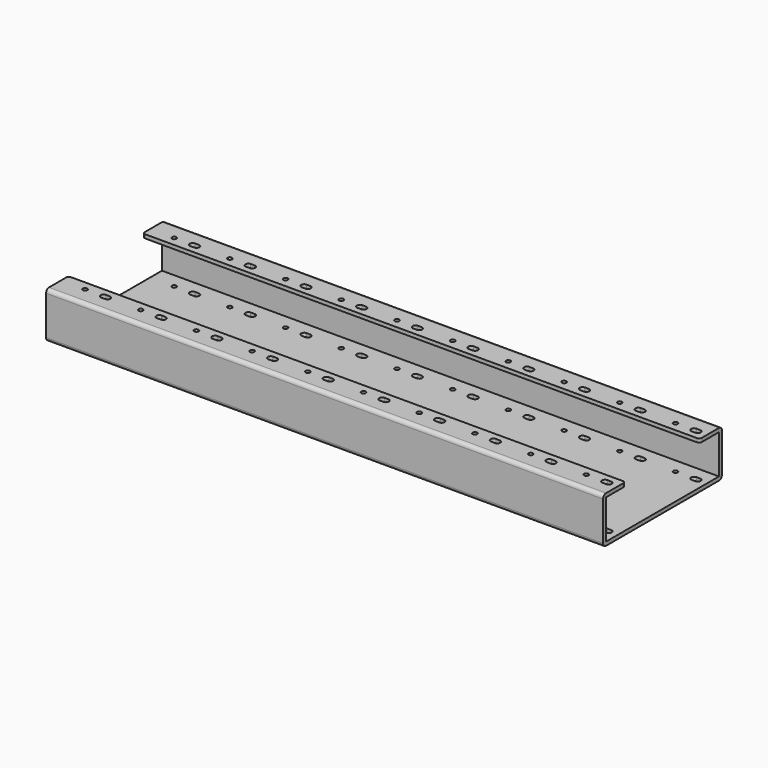
from build123d import *

# Parameters (mm, degrees)
F1_DEPTH = 150
F2_R     = 1.2
F3_DEPTH = 25.001
F4_R     = 2
F5_R     = 1.5
F6_R     = 1.75
F6_W     = 2
F6_H     = 2
F7_DEPTH = 2
F8_R     = 3


with BuildPart() as f1:
    # F0 (on Right) → F1 (new body, symmetric)
    with BuildSketch(Plane.YZ):
        Polygon((-40, 0), (0, 0), (40, 0), (40, 25), (25, 25), (25, 23), (38, 23), (38, 2), (0, 2), (-38, 2), (-38, 23), (-25, 23), (-25, 25), (-40, 25), align=None)
    extrude(amount=F1_DEPTH, both=True)

    # F2 (on face) → F3 (cut, through all)
    with BuildSketch(Plane(origin=(0, 0, 0), x_dir=(1, 0, 0), z_dir=(0, 0, -1))):
        with Locations((133, 30)):
            Circle(F2_R)
        with BuildLine():
            Line((144.9975827452, 31.599998174), (142.8993026858, 31.5968281219))
            ThreePointArc((142.8993026858, 31.5968281219), (141.4003756426, 29.9653313496), (142.9685808386, 28.4003085184))
            Line((142.9685808386, 28.4003085184), (143.0314191614, 28.4003085184))
            Line((143.0314191614, 28.4003085184), (145.0314191614, 28.4003085184))
            ThreePointArc((145.0314191614, 28.4003085184), (146.5999105446, 30.016918903), (144.9975827452, 31.599998174))
        make_face()
        with BuildLine():
            Line((143.0314191614, 28.4003085184), (142.9685808386, 28.4003085184))
            ThreePointArc((142.9685808386, 28.4003085184), (143, 28.4), (143.0314191614, 28.4003085184))
        make_face()
        with BuildLine():
            ThreePointArc((112.8993026858, 31.5968281219), (111.4003756426, 29.9653313496), (112.9685808386, 28.4003085184))
            Line((112.9685808386, 28.4003085184), (113.0314191614, 28.4003085184))
            Line((113.0314191614, 28.4003085184), (115.0314191614, 28.4003085184))
            ThreePointArc((115.0314191614, 28.4003085184), (116.5999105446, 30.016918903), (114.9975827452, 31.599998174))
            Line((114.9975827452, 31.599998174), (112.8993026858, 31.5968281219))
        make_face()
        with BuildLine():
            Line((113.0314191614, 28.4003085184), (112.9685808386, 28.4003085184))
            ThreePointArc((112.9685808386, 28.4003085184), (113, 28.4), (113.0314191614, 28.4003085184))
        make_face()
        with Locations((103, 30)):
            Circle(F2_R)
        with BuildLine():
            ThreePointArc((82.8993026858, 31.5968281219), (81.4003756426, 29.9653313496), (82.9685808386, 28.4003085184))
            Line((82.9685808386, 28.4003085184), (83.0314191614, 28.4003085184))
            Line((83.0314191614, 28.4003085184), (85.0314191614, 28.4003085184))
            ThreePointArc((85.0314191614, 28.4003085184), (86.5999105446, 30.016918903), (84.9975827452, 31.599998174))
            Line((84.9975827452, 31.599998174), (82.8993026858, 31.5968281219))
        make_face()
        with BuildLine():
            Line((83.0314191614, 28.4003085184), (82.9685808386, 28.4003085184))
            ThreePointArc((82.9685808386, 28.4003085184), (83, 28.4), (83.0314191614, 28.4003085184))
        make_face()
        with Locations((73, 30)):
            Circle(F2_R)
        with BuildLine():
            ThreePointArc((52.8993026858, 31.5968281219), (51.4003756426, 29.9653313496), (52.9685808386, 28.4003085184))
            Line((52.9685808386, 28.4003085184), (53.0314191614, 28.4003085184))
            Line((53.0314191614, 28.4003085184), (55.0314191614, 28.4003085184))
            ThreePointArc((55.0314191614, 28.4003085184), (56.5999105446, 30.016918903), (54.9975827452, 31.599998174))
            Line((54.9975827452, 31.599998174), (52.8993026858, 31.5968281219))
        make_face()
        with BuildLine():
            Line((53.0314191614, 28.4003085184), (52.9685808386, 28.4003085184))
            ThreePointArc((52.9685808386, 28.4003085184), (53, 28.4), (53.0314191614, 28.4003085184))
        make_face()
        with Locations((43, 30)):
            Circle(F2_R)
        with BuildLine():
            ThreePointArc((22.8993026858, 31.5968281219), (21.4003756426, 29.9653313496), (22.9685808386, 28.4003085184))
            Line((22.9685808386, 28.4003085184), (23.0314191614, 28.4003085184))
            Line((23.0314191614, 28.4003085184), (25.0314191614, 28.4003085184))
            ThreePointArc((25.0314191614, 28.4003085184), (26.5999105446, 30.016918903), (24.9975827452, 31.599998174))
            Line((24.9975827452, 31.599998174), (22.8993026858, 31.5968281219))
        make_face()
        with BuildLine():
            Line((23.0314191614, 28.4003085184), (22.9685808386, 28.4003085184))
            ThreePointArc((22.9685808386, 28.4003085184), (23, 28.4), (23.0314191614, 28.4003085184))
        make_face()
        with Locations((13, 30)):
            Circle(F2_R)
        with BuildLine():
            ThreePointArc((-7.1006973142, 31.5968281219), (-8.5996243574, 29.9653313496), (-7.0314191614, 28.4003085184))
            Line((-7.0314191614, 28.4003085184), (-6.9685808386, 28.4003085184))
            Line((-6.9685808386, 28.4003085184), (-4.9685808386, 28.4003085184))
            ThreePointArc((-4.9685808386, 28.4003085184), (-3.4000894554, 30.016918903), (-5.0024172548, 31.599998174))
            Line((-5.0024172548, 31.599998174), (-7.1006973142, 31.5968281219))
        make_face()
        with BuildLine():
            Line((-6.9685808386, 28.4003085184), (-7.0314191614, 28.4003085184))
            ThreePointArc((-7.0314191614, 28.4003085184), (-7, 28.4), (-6.9685808386, 28.4003085184))
        make_face()
        with Locations((-17, 30)):
            Circle(F2_R)
        with BuildLine():
            ThreePointArc((-37.1006973142, 31.5968281219), (-38.5996243574, 29.9653313496), (-37.0314191614, 28.4003085184))
            Line((-37.0314191614, 28.4003085184), (-36.9685808386, 28.4003085184))
            Line((-36.9685808386, 28.4003085184), (-34.9685808386, 28.4003085184))
            ThreePointArc((-34.9685808386, 28.4003085184), (-33.4000894554, 30.016918903), (-35.0024172548, 31.599998174))
            Line((-35.0024172548, 31.599998174), (-37.1006973142, 31.5968281219))
        make_face()
        with BuildLine():
            Line((-36.9685808386, 28.4003085184), (-37.0314191614, 28.4003085184))
            ThreePointArc((-37.0314191614, 28.4003085184), (-37, 28.4), (-36.9685808386, 28.4003085184))
        make_face()
        with Locations((-47, 30)):
            Circle(F2_R)
        with BuildLine():
            ThreePointArc((-67.1006973142, 31.5968281219), (-68.5996243574, 29.9653313496), (-67.0314191614, 28.4003085184))
            Line((-67.0314191614, 28.4003085184), (-66.9685808386, 28.4003085184))
            Line((-66.9685808386, 28.4003085184), (-64.9685808386, 28.4003085184))
            ThreePointArc((-64.9685808386, 28.4003085184), (-63.4000894554, 30.016918903), (-65.0024172548, 31.599998174))
            Line((-65.0024172548, 31.599998174), (-67.1006973142, 31.5968281219))
        make_face()
        with BuildLine():
            Line((-66.9685808386, 28.4003085184), (-67.0314191614, 28.4003085184))
            ThreePointArc((-67.0314191614, 28.4003085184), (-67, 28.4), (-66.9685808386, 28.4003085184))
        make_face()
        with Locations((-77, 30)):
            Circle(F2_R)
        with BuildLine():
            ThreePointArc((-97.1006973142, 31.5968281219), (-98.5996243574, 29.9653313496), (-97.0314191614, 28.4003085184))
            Line((-97.0314191614, 28.4003085184), (-96.9685808386, 28.4003085184))
            Line((-96.9685808386, 28.4003085184), (-94.9685808386, 28.4003085184))
            ThreePointArc((-94.9685808386, 28.4003085184), (-93.4000894554, 30.016918903), (-95.0024172548, 31.599998174))
            Line((-95.0024172548, 31.599998174), (-97.1006973142, 31.5968281219))
        make_face()
        with BuildLine():
            Line((-96.9685808386, 28.4003085184), (-97.0314191614, 28.4003085184))
            ThreePointArc((-97.0314191614, 28.4003085184), (-97, 28.4), (-96.9685808386, 28.4003085184))
        make_face()
        with Locations((-107, 30)):
            Circle(F2_R)
        with BuildLine():
            ThreePointArc((-127.1006973142, 31.5968281219), (-128.5996243574, 29.9653313496), (-127.0314191614, 28.4003085184))
            Line((-127.0314191614, 28.4003085184), (-126.9685808386, 28.4003085184))
            Line((-126.9685808386, 28.4003085184), (-124.9685808386, 28.4003085184))
            ThreePointArc((-124.9685808386, 28.4003085184), (-123.4000894554, 30.016918903), (-125.0024172548, 31.599998174))
            Line((-125.0024172548, 31.599998174), (-127.1006973142, 31.5968281219))
        make_face()
        with BuildLine():
            Line((-126.9685808386, 28.4003085184), (-127.0314191614, 28.4003085184))
            ThreePointArc((-127.0314191614, 28.4003085184), (-127, 28.4), (-126.9685808386, 28.4003085184))
        make_face()
        with Locations((-137, 30)):
            Circle(F2_R)
        with BuildLine():
            ThreePointArc((-127.0314191614, -28.4003085184), (-128.5996243574, -29.9653313496), (-127.1006973142, -31.5968281219))
            Line((-127.1006973142, -31.5968281219), (-125.0024172548, -31.599998174))
            ThreePointArc((-125.0024172548, -31.599998174), (-123.4000894554, -30.016918903), (-124.9685808386, -28.4003085184))
            Line((-124.9685808386, -28.4003085184), (-126.9685808386, -28.4003085184))
            Line((-126.9685808386, -28.4003085184), (-127.0314191614, -28.4003085184))
        make_face()
        with BuildLine():
            ThreePointArc((-126.9685808386, -28.4003085184), (-127, -28.4), (-127.0314191614, -28.4003085184))
            Line((-127.0314191614, -28.4003085184), (-126.9685808386, -28.4003085184))
        make_face()
        with Locations((-137, -30)):
            Circle(F2_R)
        with BuildLine():
            ThreePointArc((-96.9685808386, -28.4003085184), (-97, -28.4), (-97.0314191614, -28.4003085184))
            Line((-97.0314191614, -28.4003085184), (-96.9685808386, -28.4003085184))
        make_face()
        with BuildLine():
            Line((-96.9685808386, -28.4003085184), (-97.0314191614, -28.4003085184))
            ThreePointArc((-97.0314191614, -28.4003085184), (-98.5996243574, -29.9653313496), (-97.1006973142, -31.5968281219))
            Line((-97.1006973142, -31.5968281219), (-95.0024172548, -31.599998174))
            ThreePointArc((-95.0024172548, -31.599998174), (-93.4000894554, -30.016918903), (-94.9685808386, -28.4003085184))
            Line((-94.9685808386, -28.4003085184), (-96.9685808386, -28.4003085184))
        make_face()
        with Locations((-107, -30)):
            Circle(F2_R)
        with BuildLine():
            ThreePointArc((-67.0314191614, -28.4003085184), (-68.5996243574, -29.9653313496), (-67.1006973142, -31.5968281219))
            Line((-67.1006973142, -31.5968281219), (-65.0024172548, -31.599998174))
            ThreePointArc((-65.0024172548, -31.599998174), (-63.4000894554, -30.016918903), (-64.9685808386, -28.4003085184))
            Line((-64.9685808386, -28.4003085184), (-66.9685808386, -28.4003085184))
            Line((-66.9685808386, -28.4003085184), (-67.0314191614, -28.4003085184))
        make_face()
        with BuildLine():
            ThreePointArc((-66.9685808386, -28.4003085184), (-67, -28.4), (-67.0314191614, -28.4003085184))
            Line((-67.0314191614, -28.4003085184), (-66.9685808386, -28.4003085184))
        make_face()
        with Locations((-77, -30)):
            Circle(F2_R)
        with BuildLine():
            ThreePointArc((-37.0314191614, -28.4003085184), (-38.5996243574, -29.9653313496), (-37.1006973142, -31.5968281219))
            Line((-37.1006973142, -31.5968281219), (-35.0024172548, -31.599998174))
            ThreePointArc((-35.0024172548, -31.599998174), (-33.4000894554, -30.016918903), (-34.9685808386, -28.4003085184))
            Line((-34.9685808386, -28.4003085184), (-36.9685808386, -28.4003085184))
            Line((-36.9685808386, -28.4003085184), (-37.0314191614, -28.4003085184))
        make_face()
        with BuildLine():
            ThreePointArc((-36.9685808386, -28.4003085184), (-37, -28.4), (-37.0314191614, -28.4003085184))
            Line((-37.0314191614, -28.4003085184), (-36.9685808386, -28.4003085184))
        make_face()
        with Locations((-47, -30)):
            Circle(F2_R)
        with BuildLine():
            ThreePointArc((-6.9685808386, -28.4003085184), (-7, -28.4), (-7.0314191614, -28.4003085184))
            Line((-7.0314191614, -28.4003085184), (-6.9685808386, -28.4003085184))
        make_face()
        with BuildLine():
            Line((-6.9685808386, -28.4003085184), (-7.0314191614, -28.4003085184))
            ThreePointArc((-7.0314191614, -28.4003085184), (-8.5996243574, -29.9653313496), (-7.1006973142, -31.5968281219))
            Line((-7.1006973142, -31.5968281219), (-5.0024172548, -31.599998174))
            ThreePointArc((-5.0024172548, -31.599998174), (-3.4000894554, -30.016918903), (-4.9685808386, -28.4003085184))
            Line((-4.9685808386, -28.4003085184), (-6.9685808386, -28.4003085184))
        make_face()
        with Locations((-17, -30)):
            Circle(F2_R)
        with BuildLine():
            ThreePointArc((22.9685808386, -28.4003085184), (21.4003756426, -29.9653313496), (22.8993026858, -31.5968281219))
            Line((22.8993026858, -31.5968281219), (24.9975827452, -31.599998174))
            ThreePointArc((24.9975827452, -31.599998174), (26.5999105446, -30.016918903), (25.0314191614, -28.4003085184))
            Line((25.0314191614, -28.4003085184), (23.0314191614, -28.4003085184))
            Line((23.0314191614, -28.4003085184), (22.9685808386, -28.4003085184))
        make_face()
        with BuildLine():
            ThreePointArc((23.0314191614, -28.4003085184), (23, -28.4), (22.9685808386, -28.4003085184))
            Line((22.9685808386, -28.4003085184), (23.0314191614, -28.4003085184))
        make_face()
        with Locations((13, -30)):
            Circle(F2_R)
        with BuildLine():
            ThreePointArc((52.9685808386, -28.4003085184), (51.4003756426, -29.9653313496), (52.8993026858, -31.5968281219))
            Line((52.8993026858, -31.5968281219), (54.9975827452, -31.599998174))
            ThreePointArc((54.9975827452, -31.599998174), (56.5999105446, -30.016918903), (55.0314191614, -28.4003085184))
            Line((55.0314191614, -28.4003085184), (53.0314191614, -28.4003085184))
            Line((53.0314191614, -28.4003085184), (52.9685808386, -28.4003085184))
        make_face()
        with BuildLine():
            ThreePointArc((53.0314191614, -28.4003085184), (53, -28.4), (52.9685808386, -28.4003085184))
            Line((52.9685808386, -28.4003085184), (53.0314191614, -28.4003085184))
        make_face()
        with Locations((43, -30)):
            Circle(F2_R)
        with Locations((73, -30)):
            Circle(F2_R)
        with BuildLine():
            ThreePointArc((83.0314191614, -28.4003085184), (83, -28.4), (82.9685808386, -28.4003085184))
            Line((82.9685808386, -28.4003085184), (83.0314191614, -28.4003085184))
        make_face()
        with BuildLine():
            Line((83.0314191614, -28.4003085184), (82.9685808386, -28.4003085184))
            ThreePointArc((82.9685808386, -28.4003085184), (81.4003756426, -29.9653313496), (82.8993026858, -31.5968281219))
            Line((82.8993026858, -31.5968281219), (84.9975827452, -31.599998174))
            ThreePointArc((84.9975827452, -31.599998174), (86.5999105446, -30.016918903), (85.0314191614, -28.4003085184))
            Line((85.0314191614, -28.4003085184), (83.0314191614, -28.4003085184))
        make_face()
        with BuildLine():
            ThreePointArc((112.9685808386, -28.4003085184), (111.4003756426, -29.9653313496), (112.8993026858, -31.5968281219))
            Line((112.8993026858, -31.5968281219), (114.9975827452, -31.599998174))
            ThreePointArc((114.9975827452, -31.599998174), (116.5999105446, -30.016918903), (115.0314191614, -28.4003085184))
            Line((115.0314191614, -28.4003085184), (113.0314191614, -28.4003085184))
            Line((113.0314191614, -28.4003085184), (112.9685808386, -28.4003085184))
        make_face()
        with BuildLine():
            ThreePointArc((113.0314191614, -28.4003085184), (113, -28.4), (112.9685808386, -28.4003085184))
            Line((112.9685808386, -28.4003085184), (113.0314191614, -28.4003085184))
        make_face()
        with BuildLine():
            ThreePointArc((142.9685808386, -28.4003085184), (141.4003756426, -29.9653313496), (142.8993026858, -31.5968281219))
            Line((142.8993026858, -31.5968281219), (144.9975827452, -31.599998174))
            ThreePointArc((144.9975827452, -31.599998174), (146.5999105446, -30.016918903), (145.0314191614, -28.4003085184))
            Line((145.0314191614, -28.4003085184), (143.0314191614, -28.4003085184))
            Line((143.0314191614, -28.4003085184), (142.9685808386, -28.4003085184))
        make_face()
        with BuildLine():
            ThreePointArc((143.0314191614, -28.4003085184), (143, -28.4), (142.9685808386, -28.4003085184))
            Line((142.9685808386, -28.4003085184), (143.0314191614, -28.4003085184))
        make_face()
        with Locations((133, -30)):
            Circle(F2_R)
        with Locations((103, -30)):
            Circle(F2_R)
    extrude(amount=-F3_DEPTH, mode=Mode.SUBTRACT)

    # F4
    f4_edges = [f1.edges().sort_by_distance(p)[0] for p in [
        (0, 40, 25),
        (0, 40, 0),
        (0, -40, 0),
        (0, -40, 25),
    ]]
    fillet(f4_edges, radius=F4_R)

    # F5
    f5_edges = [f1.edges().sort_by_distance(p)[0] for p in [
        (-150, 25, 24),
        (-150, -25, 24),
        (150, 25, 24),
        (150, -25, 24),
    ]]
    fillet(f5_edges, radius=F5_R)

    # F6 (on face) → F7 (cut)
    with BuildSketch(Plane(origin=(0, 0, 0), x_dir=(1, 0, 0), z_dir=(0, 0, -1))):
        Circle(F6_R)
        with Locations((-51, 1)):
            Rectangle(F6_W, F6_H)
        with BuildLine():
            Line((-52, -2), (-52, 0))
            Line((-52, 0), (-52, 2))
            Line((-52, 2), (-57.5, 2))
            ThreePointArc((-57.5, 2), (-59.5, 0), (-57.5, -2))
            Line((-57.5, -2), (-52, -2))
        make_face()
        with Locations((-51, -1)):
            Rectangle(F6_W, F6_H)
        with Locations((-49, 1)):
            Rectangle(F6_W, F6_H)
        with Locations((-49, -1)):
            Rectangle(F6_W, F6_H)
        with BuildLine():
            Line((-52, 7.5), (-52, 2))
            Line((-52, 2), (-50, 2))
            Line((-50, 2), (-48, 2))
            Line((-48, 2), (-48, 7.5))
            ThreePointArc((-48, 7.5), (-50, 9.5), (-52, 7.5))
        make_face()
        with BuildLine():
            Line((-50, -2), (-52, -2))
            Line((-52, -2), (-52, -7.5))
            ThreePointArc((-52, -7.5), (-50, -9.5), (-48, -7.5))
            Line((-48, -7.5), (-48, -2))
            Line((-48, -2), (-50, -2))
        make_face()
        with BuildLine():
            Line((-48, 2), (-48, 0))
            Line((-48, 0), (-48, -2))
            Line((-48, -2), (-42.5, -2))
            ThreePointArc((-42.5, -2), (-40.5, 0), (-42.5, 2))
            Line((-42.5, 2), (-48, 2))
        make_face()
        with BuildLine():
            Line((52, 2), (52, 7.5))
            ThreePointArc((52, 7.5), (50, 9.5), (48, 7.5))
            Line((48, 7.5), (48, 2))
            Line((48, 2), (50, 2))
            Line((50, 2), (52, 2))
        make_face()
        with BuildLine():
            Line((57.5, 2), (52, 2))
            Line((52, 2), (52, 0))
            Line((52, 0), (52, -2))
            Line((52, -2), (57.5, -2))
            ThreePointArc((57.5, -2), (59.5, 0), (57.5, 2))
        make_face()
        with Locations((51, 1)):
            Rectangle(F6_W, F6_H)
        with Locations((51, -1)):
            Rectangle(F6_W, F6_H)
        with Locations((49, 1)):
            Rectangle(F6_W, F6_H)
        with BuildLine():
            Line((48, 0), (48, 2))
            Line((48, 2), (42.5, 2))
            ThreePointArc((42.5, 2), (40.5, 0), (42.5, -2))
            Line((42.5, -2), (48, -2))
            Line((48, -2), (48, 0))
        make_face()
        with BuildLine():
            Line((52, -7.5), (52, -2))
            Line((52, -2), (50, -2))
            Line((50, -2), (48, -2))
            Line((48, -2), (48, -7.5))
            ThreePointArc((48, -7.5), (50, -9.5), (52, -7.5))
        make_face()
        with Locations((49, -1)):
            Rectangle(F6_W, F6_H)
    extrude(amount=-F7_DEPTH, mode=Mode.SUBTRACT)

    # F8
    f8_edges = [f1.edges().sort_by_distance(p)[0] for p in [
        (-52, 2, 1),
        (-48, 2, 1),
        (-48, -2, 1),
        (-52, -2, 1),
        (48, -2, 1),
        (52, -2, 1),
        (48, 2, 1),
        (52, 2, 1),
    ]]
    fillet(f8_edges, radius=F8_R)


solid = f1.part
